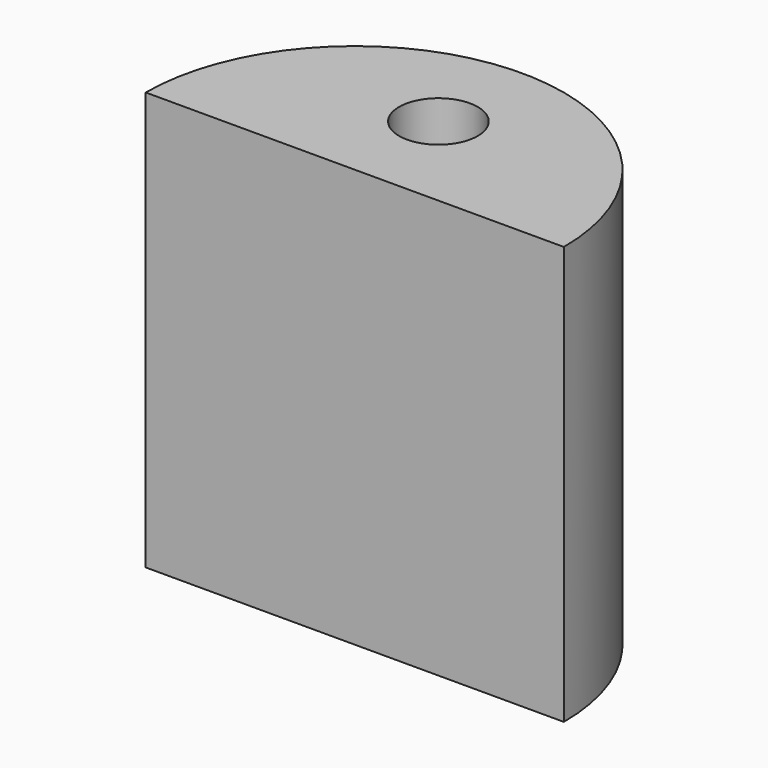
from build123d import *

# Parameters (mm, degrees)
F1_DEPTH = 100
F2_R     = 18.825
F3_DEPTH = 75


with BuildPart() as f1:
    # F0 (on Top) → F1 (new body, symmetric)
    with BuildSketch(Plane.XY):
        with BuildLine():
            Line((-100, 0), (100, 0))
            ThreePointArc((100, 0), (0, 100), (-100, 0))
        make_face()
    extrude(amount=F1_DEPTH, both=True)

    # F2 (on face) → F3 (cut)
    with BuildSketch(Plane.XY.offset(100)):
        with Locations((0, 50)):
            Circle(F2_R)
    extrude(amount=-F3_DEPTH, mode=Mode.SUBTRACT)


solid = f1.part
